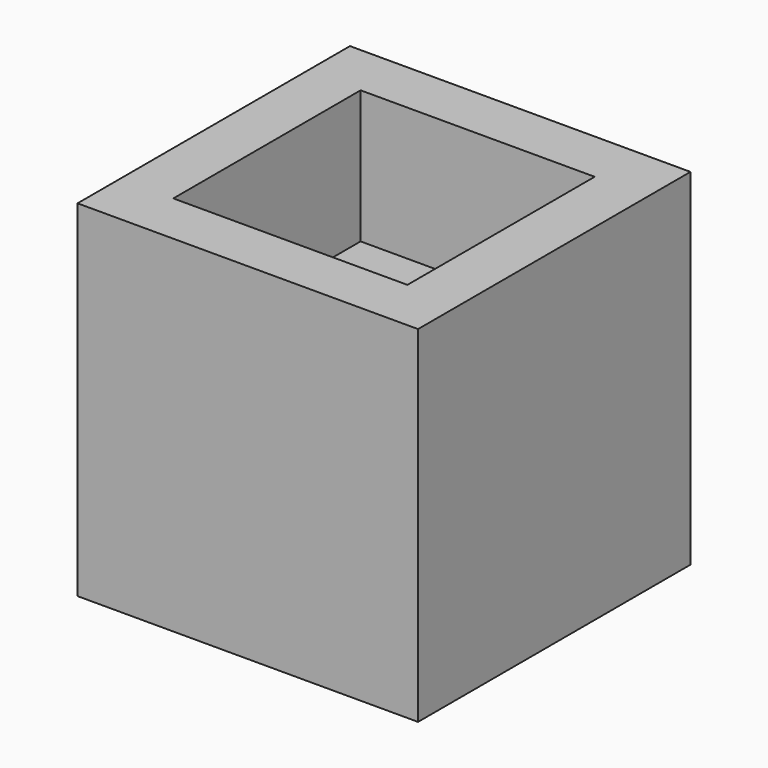
from build123d import *

# Parameters (mm, degrees)
F0_W     = 32.0000015199
F0_H     = 32.0000015199
F0_W_2   = 22
F0_H_2   = 22
F1_DEPTH = 12.5
F2_DEPTH = 20


with BuildPart() as f1:
    # F0 (on Top) → F1 (new body)
    with BuildSketch(Plane.XY):
        Rectangle(F0_W, F0_H)
        Rectangle(F0_W_2, F0_H_2, mode=Mode.SUBTRACT)
    extrude(amount=F1_DEPTH)

    # F0 (on Top) → F2 (join)
    with BuildSketch(Plane.XY):
        Rectangle(F0_W, F0_H)
        Rectangle(F0_W_2, F0_H_2, mode=Mode.SUBTRACT)
        Rectangle(F0_W_2, F0_H_2)
    extrude(amount=-F2_DEPTH)


solid = f1.part
